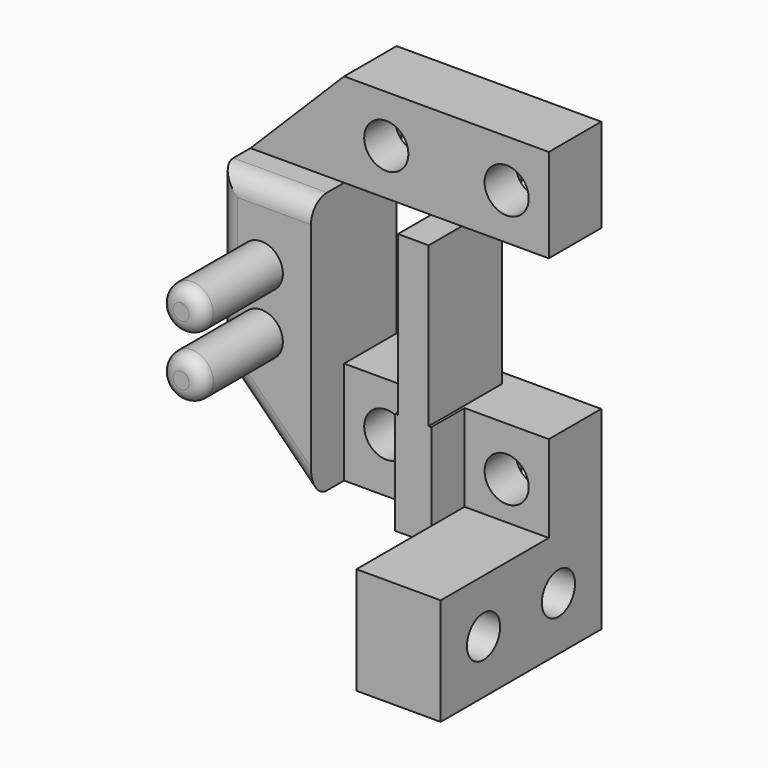
from build123d import *

# Parameters (mm, degrees)
SKETCH_R        = 1.55
PAD_DEPTH       = 6.3
SKETCH002_W     = 5.6
SKETCH002_H     = 5.6
POCKET_DEPTH    = 2
PAD001_DEPTH    = 7.7
SKETCH003_R     = 1.65
POCKET001_DEPTH = 4.901
SKETCH004_W     = 5.6
SKETCH004_H     = 5.6
POCKET002_DEPTH = 2
SKETCH005_W     = 8
SKETCH005_H     = 7
PAD002_DEPTH    = 11.9
SKETCH006_R     = 1.6
PAD003_DEPTH    = 7.5
PAD004_DEPTH    = 11.9
SKETCH008_W     = 4.9
SKETCH008_H     = 22.3
PAD005_DEPTH    = 7
SKETCH009_R     = 1.65
POCKET003_DEPTH = 15.501
SKETCH010_W     = 5.6
SKETCH010_H     = 5.6
POCKET004_DEPTH = 2
CHAMFER_SIZE    = 7
FILLET_R        = 1.5
FILLET001_R     = 1


with BuildPart() as part:
    # Sketch → Pad (new body)
    with BuildSketch(Plane.YZ):
        Polygon((-4.9, -4.25), (0, -4.25), (0, -18.75), (-15, -18.75), (-15, -10.75), (-4.9, -10.75), align=None)
        with Locations((-11, -14.75)):
            Circle(SKETCH_R, mode=Mode.SUBTRACT)
        with Locations((-4, -14.75)):
            Circle(SKETCH_R, mode=Mode.SUBTRACT)
    extrude(amount=PAD_DEPTH)

    # Sketch002 (on Face9 of Pad) → Pocket (cut)
    with BuildSketch(Plane(origin=(0, 0, 0), x_dir=(0, 1, 0), z_dir=(-1, 0, 0))):
        with Locations((-4, 14.75)):
            Rectangle(SKETCH002_W, SKETCH002_H)
        with Locations((-11, 14.75)):
            Rectangle(SKETCH002_W, SKETCH002_H)
    extrude(amount=-POCKET_DEPTH, mode=Mode.SUBTRACT)

    # Sketch001 (on Face1 of Pad) → Pad001 (join)
    with BuildSketch(Plane(origin=(0, 0, -4.25), x_dir=(0, -1, 0), z_dir=(0, 0, 1))):
        Polygon((0, 0), (0, -16), (8, -16), (8, -9), (4.9, -9), (4.9, -2.7), (8, -2.7), (8, 0), align=None)
    extrude(amount=-PAD001_DEPTH)

    # Sketch003 (on Face1 of Pad001) → Pocket001 (cut, through all)
    with BuildSketch(Plane(origin=(0, -4.9, 0), x_dir=(0, 0, -1), z_dir=(0, -1, 0))):
        with Locations((7.9, -5.85)):
            Circle(SKETCH003_R)
        with Locations((7.9, 3.15)):
            Circle(SKETCH003_R)
    extrude(amount=-POCKET001_DEPTH, mode=Mode.SUBTRACT)

    # Sketch004 (on Face10 of Pocket001) → Pocket002 (cut)
    with BuildSketch(Plane.ZX):
        with Locations((-7.9, 3.15)):
            Rectangle(SKETCH004_W, SKETCH004_H)
        with Locations((-7.9, -5.85)):
            Rectangle(SKETCH004_W, SKETCH004_H)
    extrude(amount=-POCKET002_DEPTH, mode=Mode.SUBTRACT)

    # Sketch005 (on Face5 of Pocket002) → Pad002 (join)
    with BuildSketch(Plane(origin=(0, 0, -4.25), x_dir=(0, -1, 0), z_dir=(0, 0, 1))):
        with Locations((4, -12.5)):
            Rectangle(SKETCH005_W, SKETCH005_H)
    extrude(amount=PAD002_DEPTH)

    # Sketch006 (on Face36 of Pad002) → Pad003 (join)
    with BuildSketch(Plane(origin=(0, -8, 0), x_dir=(0, 0, -1), z_dir=(0, -1, 0))):
        with Locations((-2.25, -12.7)):
            Circle(SKETCH006_R)
        with Locations((2.25, -12.7)):
            Circle(SKETCH006_R)
    extrude(amount=PAD003_DEPTH)

    # Sketch007 (on Face7 of Pad003) → Pad004 (join)
    with BuildSketch(Plane(origin=(0, 0, -4.25), x_dir=(0, -1, 0), z_dir=(0, 0, 1))):
        Polygon((8, -2.5), (1.15, -2.5), (0, -1.35), (1.15, -0.2), (8, -0.2), align=None)
    extrude(amount=PAD004_DEPTH)

    # Sketch008 (on Face14 of Pad004) → Pad005 (join)
    with BuildSketch(Plane(origin=(0, 0, 7.65), x_dir=(0, -1, 0), z_dir=(0, 0, 1))):
        with Locations((2.45, -4.85)):
            Rectangle(SKETCH008_W, SKETCH008_H)
    extrude(amount=PAD005_DEPTH)

    # Sketch009 (on Face54 of Pad005) → Pocket003 (cut, through all)
    with BuildSketch(Plane.ZX):
        with Locations((11.1, 3.15)):
            Circle(SKETCH009_R)
        with Locations((11.1, -5.85)):
            Circle(SKETCH009_R)
    extrude(amount=-POCKET003_DEPTH, mode=Mode.SUBTRACT)

    # Sketch010 (on Face4 of Pocket003) → Pocket004 (cut)
    with BuildSketch(Plane.ZX):
        with Locations((11.1, 3.15)):
            Rectangle(SKETCH010_W, SKETCH010_H)
        with Locations((11.1, -5.85)):
            Rectangle(SKETCH010_W, SKETCH010_H)
    extrude(amount=-POCKET004_DEPTH, mode=Mode.SUBTRACT)

    # Chamfer
    chamfer_edges = [part.edges().sort_by_distance(p)[0] for p in [
        (-16, -2.45, 14.65),
        (-16, -4, -11.95),
    ]]
    chamfer(chamfer_edges, length=CHAMFER_SIZE)

    # Fillet
    fillet_edges = [part.edges().sort_by_distance(p)[0] for p in [
        (-12.5, -8, -8.45),
        (-16, -8, 1.35),
        (-12.5, -8, 7.65),
    ]]
    fillet(fillet_edges, radius=FILLET_R)

    # Fillet001
    fillet001_edges = [part.edges().sort_by_distance(p)[0] for p in [
        (-12.7, -15.5, -0.65),
        (-12.7, -15.5, 3.85),
    ]]
    fillet(fillet001_edges, radius=FILLET001_R)


solid = part.part
